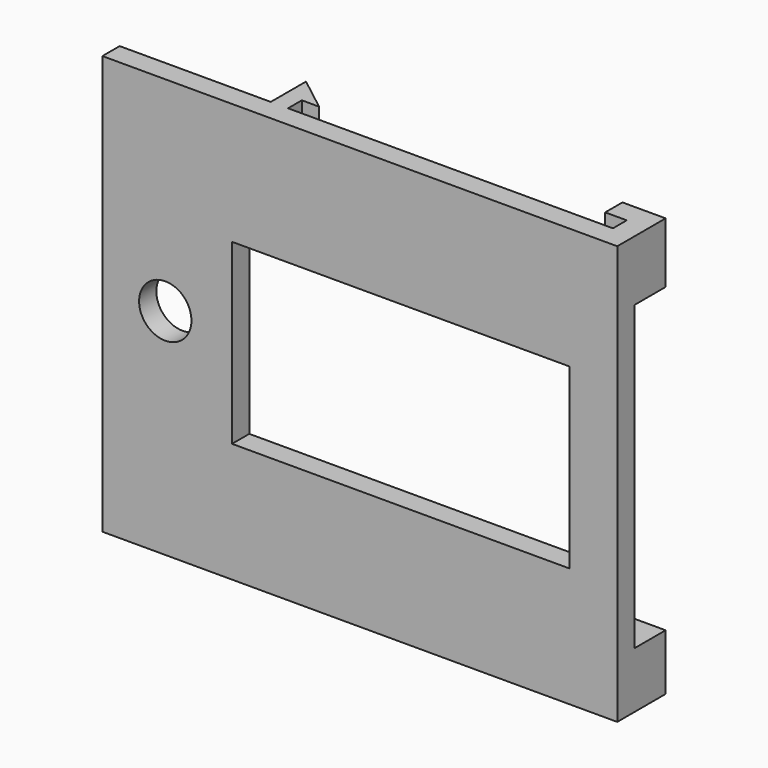
from build123d import *

# Parameters (mm, degrees)
SKETCH003_R      = 6.064037
EXTRUDE002_DEPTH = 50
SKETCH002_W      = 78.198598
SKETCH002_H      = 41.193907
EXTRUDE001_DEPTH = 50
SKETCH001_W      = 95.175157
SKETCH001_H      = 14.36759
EXTRUDE_DEPTH    = 70
PAD_DEPTH        = 97


with BuildPart() as extrude002:
    # Sketch003 (on Face5 of Cut001) → Extrude002 (new body)
    with BuildSketch(Plane(origin=(0, 5, 0), x_dir=(-1, 0, 0), z_dir=(0, 1, 0))):
        with Locations((20.43144, 49.75)):
            Circle(SKETCH003_R)
    extrude(amount=EXTRUDE002_DEPTH)


with BuildPart() as extrude002_1:
    # Extrude002 placement: moved
    add(extrude002.part.moved(Location((0, -30, 0))))


with BuildPart() as extrude001:
    # Sketch002 (on Face26 of Cut) → Extrude001 (new body)
    with BuildSketch(Plane(origin=(0, 5, 0), x_dir=(-1, 0, 0), z_dir=(0, 1, 0))):
        with Locations((-34.130269, 48.288522)):
            Rectangle(SKETCH002_W, SKETCH002_H)
    extrude(amount=EXTRUDE001_DEPTH)


with BuildPart() as extrude001_1:
    # Extrude001 placement: moved
    add(extrude001.part.moved(Location((0, -20, 0))))


with BuildPart() as extrude_body:
    # Sketch001 (on DatumPlane) → Extrude (new body)
    with BuildSketch(Plane.XY.offset(97)):
        with Locations((43.402381, 12.183795)):
            Rectangle(SKETCH001_W, SKETCH001_H)
    extrude(amount=EXTRUDE_DEPTH)


with BuildPart() as extrude_body_1:
    # Extrude placement: moved
    add(extrude_body.part.moved(Location((0, 0, -84))))


with BuildPart() as cut002:
    # Sketch → Pad (new body)
    with BuildSketch(Plane.XY):
        Polygon((0, 0), (84.267495, 0), (84.267495, 14), (74.267495, 14), (74.267495, 9), (79.267495, 9), (79.267495, 5), (4, 5), (4, 9), (8, 9), (0, 15.213463), (0, 5), (-35, 5), (-35, 0), align=None)
    extrude(amount=PAD_DEPTH)

    # Cut: cut Extrude body
    add(extrude_body_1.part, mode=Mode.SUBTRACT)

    # Cut001: cut Extrude001
    add(extrude001_1.part, mode=Mode.SUBTRACT)

    # Cut002: cut Extrude002
    add(extrude002_1.part, mode=Mode.SUBTRACT)


solid = cut002.part
